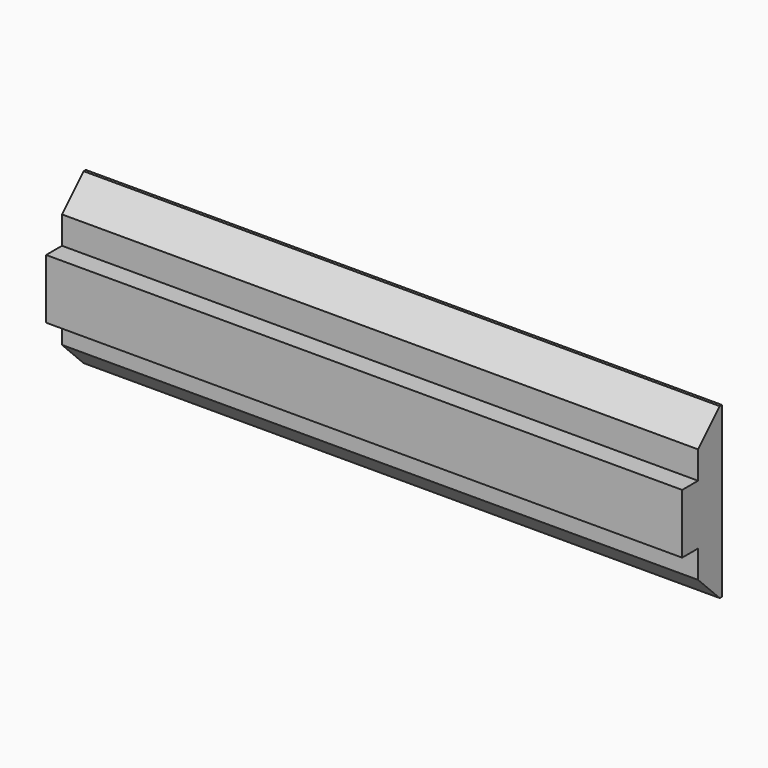
from build123d import *

# Parameters (mm, degrees)
F0_W     = 203.2
F0_H     = 53.975
F1_DEPTH = 4.7625
F2_SIZE  = 8.636
F3_W     = 203.2
F3_H     = 19.05
F4_DEPTH = 6.35


with BuildPart() as f1:
    # F0 (on Front) → F1 (new body, symmetric)
    with BuildSketch(Plane.XZ):
        Rectangle(F0_W, F0_H)
    extrude(amount=F1_DEPTH, both=True)

    # F2
    f2_edges = [f1.edges().sort_by_distance(p)[0] for p in [
        (0, -4.7625, 26.9875),
        (0, -4.7625, -26.9875),
    ]]
    chamfer(f2_edges, length=F2_SIZE)

    # F3 (on face) → F4 (join)
    with BuildSketch(Plane.XZ.offset(4.7625)):
        Rectangle(F3_W, F3_H)
    extrude(amount=F4_DEPTH)


solid = f1.part
